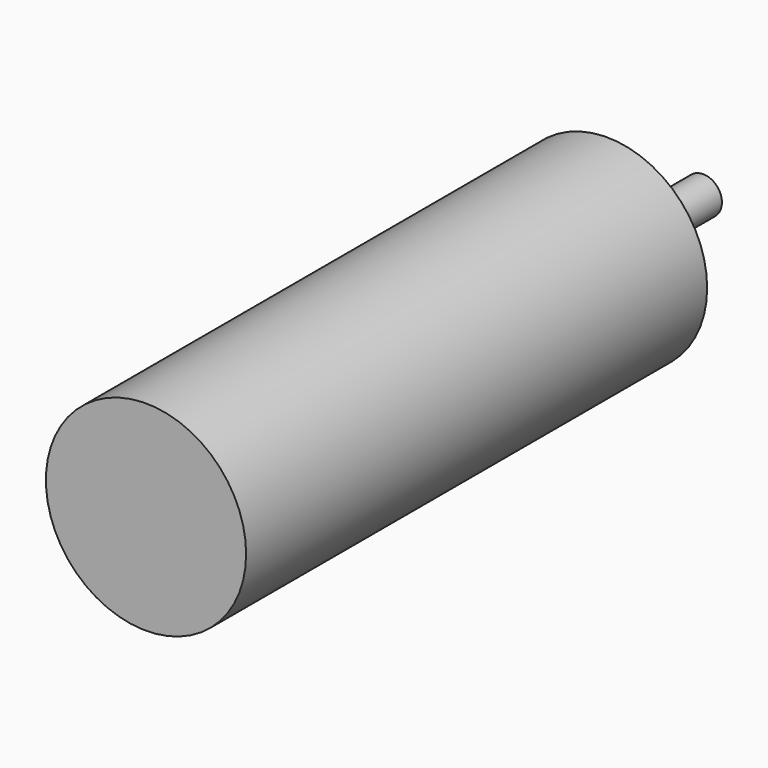
from build123d import *

# Parameters (mm, degrees)
F0_R     = 10
F3_DEPTH = 3
F2_R     = 3
F4_DEPTH = 19.2
F1_R     = 16
F5_DEPTH = 92.1


with BuildPart() as f3:
    # F0 (on Front) → F3 (new body)
    with BuildSketch(Plane.XZ):
        Circle(F0_R)
    extrude(amount=-F3_DEPTH)

    # F2 (on Front) → F4 (join)
    with BuildSketch(Plane.XZ):
        Circle(F2_R)
    extrude(amount=-F4_DEPTH)

    # F1 (on Front) → F5 (join)
    with BuildSketch(Plane.XZ):
        Circle(F1_R)
    extrude(amount=F5_DEPTH)


solid = f3.part
